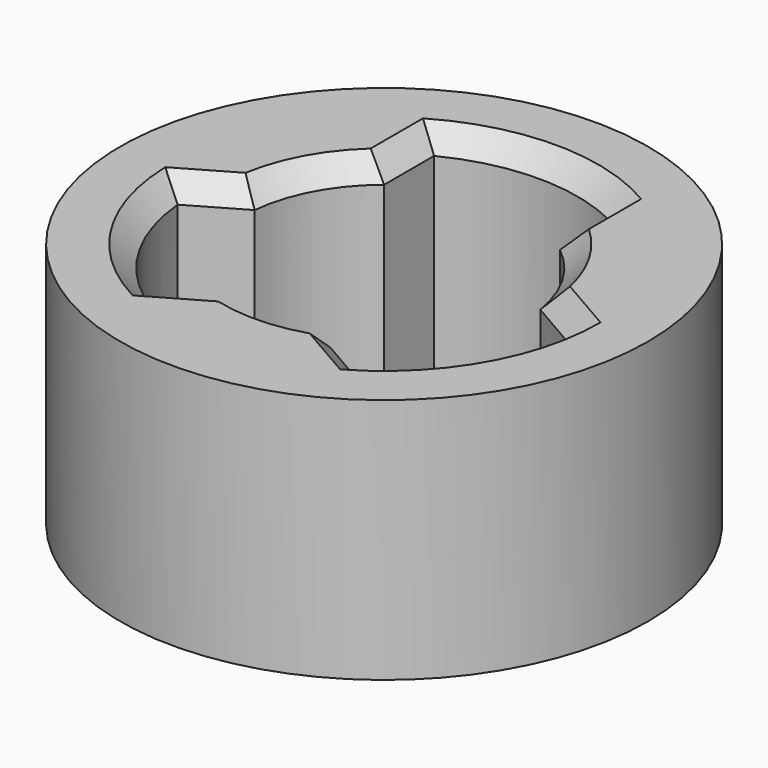
from build123d import *

# Parameters (mm, degrees)
SKETCH_R     = 7.5
PAD_DEPTH    = 7
CHAMFER_SIZE = 0.6


with BuildPart() as part:
    # Sketch → Pad (new body)
    with BuildSketch(Plane.XY):
        Circle(SKETCH_R)
        with BuildLine():
            ThreePointArc((-2.5, 3.122499), (-3.518971, 1.901799), (-3.981855, 0.380567))
            Line((-5.478695, -0.483634), (-3.981855, 0.380567))
            ThreePointArc((-5.478695, -0.483634), (-4.659167, -2.922699), (-2.81991, -4.722087))
            Line((-1.232265, -3.80546), (-2.81991, -4.722087))
            ThreePointArc((-1.232265, -3.80546), (0.117848, -3.998264), (1.454262, -3.726275))
            Line((2.992718, -4.614503), (1.454262, -3.726275))
            ThreePointArc((2.992718, -4.614503), (4.763149, -2.749985), (5.492638, -0.284484))
            Line((3.954108, 0.604177), (5.492638, -0.284484))
            ThreePointArc((3.954108, 0.604177), (3.46401, 2.000159), (2.5, 3.122499))
            Line((2.5, 3.122499), (2.5, 4.898979))
            ThreePointArc((2.5, 4.898979), (0, 5.5), (-2.5, 4.898979))
            Line((-2.5, 3.122499), (-2.5, 4.898979))
        make_face(mode=Mode.SUBTRACT)
    extrude(amount=PAD_DEPTH)

    # Chamfer
    chamfer_edges = [part.edges().sort_by_distance(p)[0] for p in [
        (-3.518971, 1.901799, 7),
        (-4.730275, -0.051534, 7),
        (-4.659167, -2.922699, 7),
        (-2.026088, -4.263773, 7),
        (0.117848, -3.998264, 7),
        (2.22349, -4.170389, 7),
        (4.763149, -2.749985, 7),
        (4.723373, 0.159847, 7),
        (3.46401, 2.000159, 7),
        (2.5, 4.010739, 7),
        (0, 5.5, 7),
        (-2.5, 4.010739, 7),
    ]]
    chamfer(chamfer_edges, length=CHAMFER_SIZE)


solid = part.part
